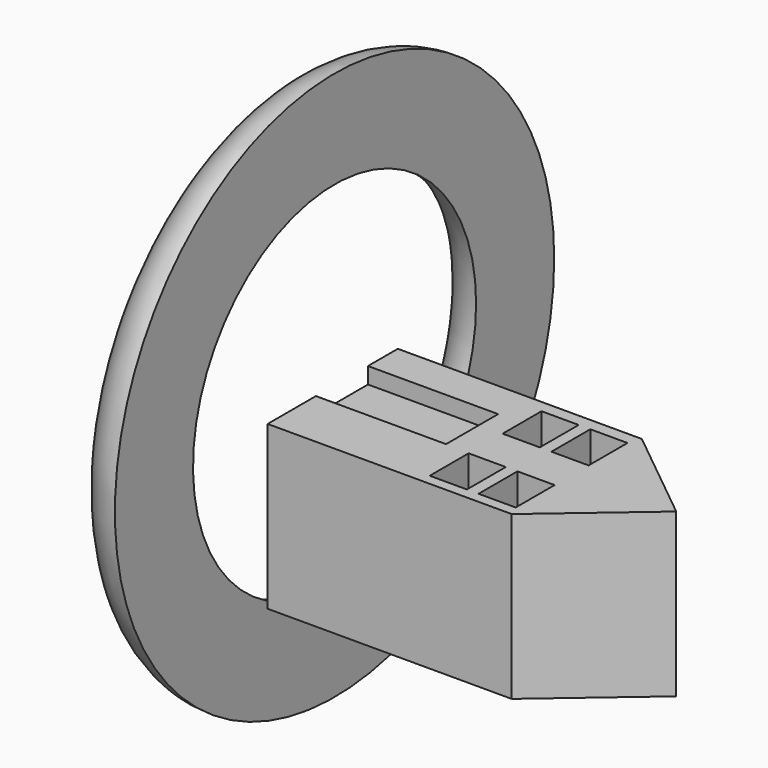
from build123d import *

# Parameters (mm, degrees)
F0_W     = 381
F0_H     = 254
F1_DEPTH = 254
F3_W     = 203.2
F3_H     = 101.6
F4_DEPTH = 25.4
F7_W     = 58.020108
F7_H     = 75.872456
F8_DEPTH = 254


with BuildPart() as f1:
    # F0 (on Top) → F1 (new body)
    with BuildSketch(Plane.XY):
        with Locations((-79.399429, -3.591057)):
            Rectangle(F0_W, F0_H)
        Polygon((263.500571, 0), (111.100571, 123.408943), (111.100571, -130.591057), align=None)
    extrude(amount=F1_DEPTH)

    # F3 (on face) → F4 (cut)
    with BuildSketch(Plane.XY.offset(254)):
        with Locations((-168.299429, 14.378742)):
            Rectangle(F3_W, F3_H)
    extrude(amount=-F4_DEPTH, mode=Mode.SUBTRACT)

    # F5 (on face) → F6 (revolve)
    with BuildSketch(Plane.XY.offset(254)):
        with BuildLine():
            Line((-269.899429, 276.197859), (-269.899429, 428.597859))
            ThreePointArc((-269.899429, 428.597859), (-346.099429, 352.397859), (-269.899429, 276.197859))
        make_face()
    revolve(axis=Axis((-3.199429, 0, 254), (-1, 0, 0)))

    # F7 (on face) → F8 (cut, through all)
    with BuildSketch(Plane.XY.offset(254)):
        with Locations((75.068335, 66.202429)):
            Rectangle(F7_W, F7_H)
        with Locations((-1.131665, 66.202429)):
            Rectangle(F7_W, F7_H)
        with Locations((-1.131665, -76.037571)):
            Rectangle(F7_W, F7_H)
        with Locations((75.068335, -76.037571)):
            Rectangle(F7_W, F7_H)
    extrude(amount=-F8_DEPTH, mode=Mode.SUBTRACT)


solid = f1.part
